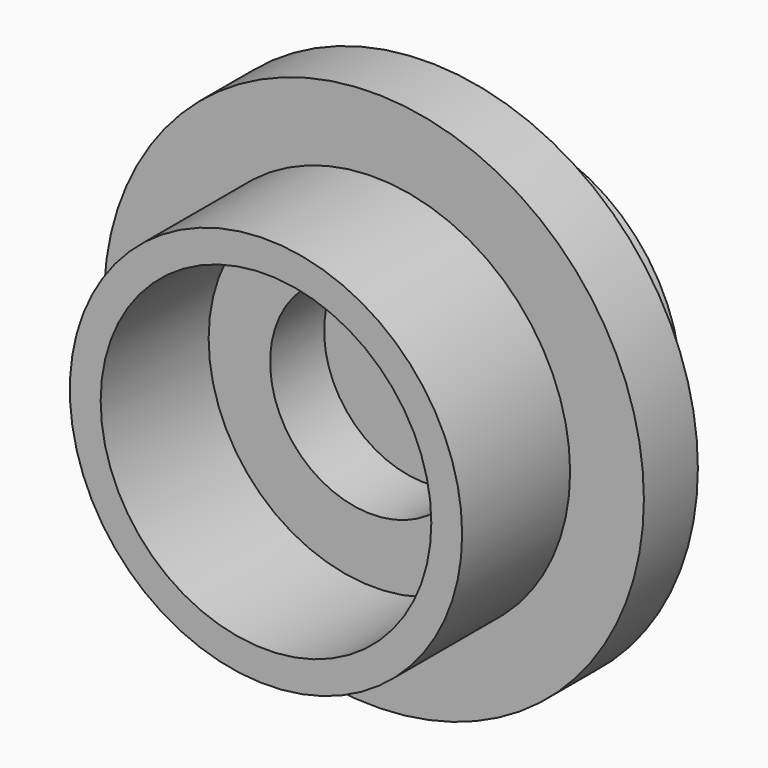
from build123d import *

# Parameters (mm, degrees)
F0_R     = 4
F0_R_2   = 3.4982450121
F0_R_3   = 3.0047107059
F1_DEPTH = 1
F2_R     = 2.9066223448
F2_R_2   = 2.45
F3_DEPTH = 2
F4_R     = 2.5488613676
F5_DEPTH = 1.5
F7_D     = 3
F7_DEPTH = 2
F7_TIP   = 0.9012909285


with BuildPart() as f1:
    # F0 (on Front) → F1 (new body)
    with BuildSketch(Plane.XZ):
        with Locations((-18.8527759165, 9.8558971658)):
            Circle(F0_R)
        with Locations((-18.8527759165, 9.8558971658)):
            Circle(F0_R_2, mode=Mode.SUBTRACT)
        with Locations((-18.8527759165, 9.8558971658)):
            Circle(F0_R_2)
        with Locations((-18.8527759165, 9.8558971658)):
            Circle(F0_R_3, mode=Mode.SUBTRACT)
        with Locations((-18.8527759165, 9.8558971658)):
            Circle(F0_R_3)
    extrude(amount=F1_DEPTH)

    # F2 (on face) → F3 (join)
    with BuildSketch(Plane.XZ.offset(1)):
        with Locations((-18.8527759165, 9.8558971658)):
            Circle(F2_R)
        with Locations((-18.8527759165, 9.8558971658)):
            Circle(F2_R_2, mode=Mode.SUBTRACT)
    extrude(amount=F3_DEPTH)

    # F4 (on face) → F5 (join)
    with BuildSketch(Plane(origin=(0, 0, 0), x_dir=(-1, 0, 0), z_dir=(0, 1, 0))):
        with Locations((18.8527759165, 9.8558971658)):
            Circle(F4_R)
    extrude(amount=F5_DEPTH)

    # F7 (one way)
    with BuildSketch(Plane(origin=(0, 0, 0), x_dir=(1, 0, 0), z_dir=(0, 1, 0))):
        with Locations((-18.891595304, -9.8473792896)):
            Circle(F7_D / 2)
    extrude(amount=-F7_DEPTH, mode=Mode.SUBTRACT)
    with Locations(Plane(origin=(0, 0, 0), x_dir=(1, 0, 0), z_dir=(0, 1, 0))):
        with Locations((-18.891595304, -9.8473792896)):
            with Locations((0, 0, -(F7_DEPTH + F7_TIP / 2))):  # 118° drill point
                Cone(0, F7_D / 2, F7_TIP, mode=Mode.SUBTRACT)


solid = f1.part
